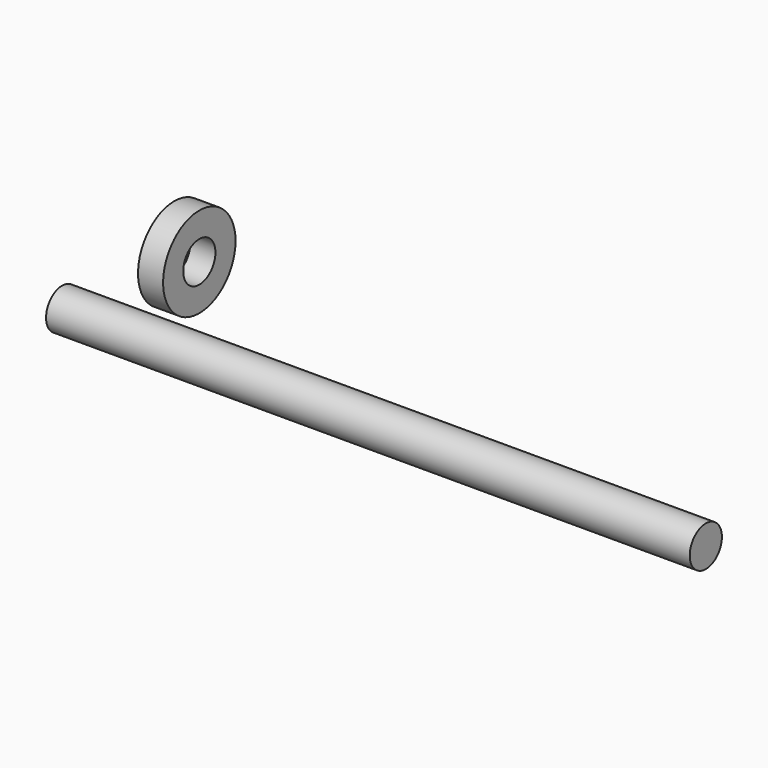
from build123d import *

# Parameters (mm, degrees)
F0_R     = 6.35
F1_DEPTH = 203.2
F2_R     = 14.2875
F2_R_2   = 6.35
F3_DEPTH = 7.9248


with BuildPart() as f1:
    # F0 (on Right) → F1 (new body)
    with BuildSketch(Plane.YZ):
        with Locations((-15.335251, 32.893002)):
            Circle(F0_R)
    extrude(amount=F1_DEPTH)


with BuildPart() as f3:
    # F2 (on Right) → F3 (new body)
    with BuildSketch(Plane.YZ):
        with Locations((28.892498, 30.448252)):
            Circle(F2_R)
        with Locations((28.892498, 30.448252)):
            Circle(F2_R_2, mode=Mode.SUBTRACT)
    extrude(amount=F3_DEPTH)


solid = Compound([f1.part, f3.part])
